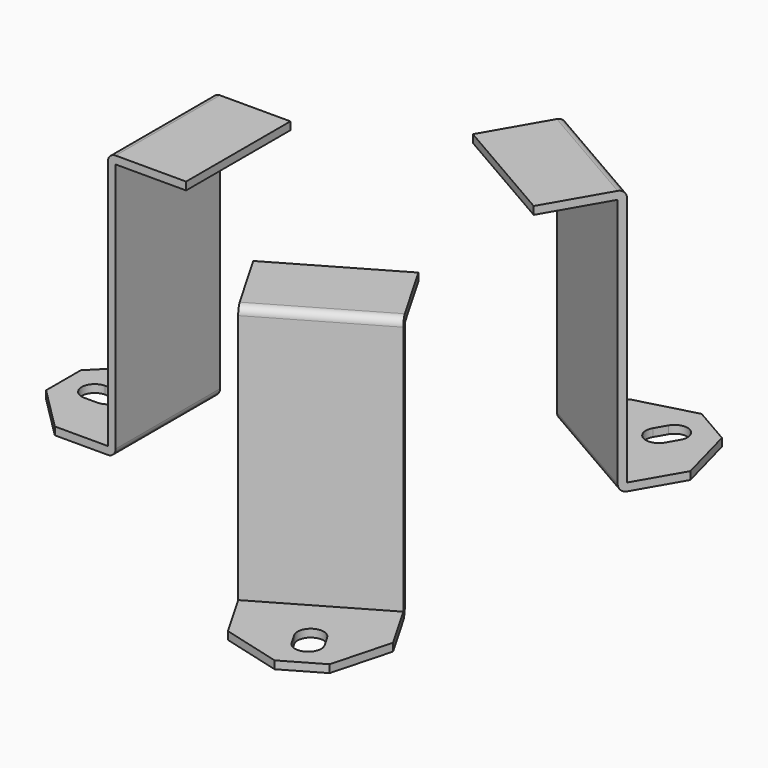
from build123d import *

# Parameters (mm, degrees)
F1_DEPTH = 25
F3_DEPTH = 25
F5_DEPTH = 25
F6_R     = 3
F8_COUNT = 3


with BuildPart() as f1:
    # F0 (on Front) → F1 (new body, symmetric)
    with BuildSketch(Plane.XZ):
        Polygon((30, 96), (30, 99), (0, 99), (0, 0), (-37, 0), (-37, -3), (3, -3), (3, 96), align=None)
    extrude(amount=F1_DEPTH, both=True)

    # F2 (on face) → F3 (cut)
    with BuildSketch(Plane.XY):
        Polygon((-37, 8.333333), (-20.333333, 25), (-37, 25), align=None)
        Polygon((-20.333333, -25), (-37, -8.333333), (-37, -25), align=None)
    extrude(amount=-F3_DEPTH, mode=Mode.SUBTRACT)

    # F4 (on face) → F5 (cut)
    with BuildSketch(Plane.XY):
        with BuildLine():
            Line((-20, 5), (-25, 5))
            ThreePointArc((-25, 5), (-30, 0), (-25, -5))
            Line((-25, -5), (-20, -5))
            ThreePointArc((-20, -5), (-15, 0), (-20, 5))
        make_face()
    extrude(amount=-F5_DEPTH, mode=Mode.SUBTRACT)

    # F6
    f6_edges = [f1.edges().sort_by_distance(p)[0] for p in [
        (3, 0, -3),
        (0, 0, 99),
    ]]
    fillet(f6_edges, radius=F6_R)


with BuildPart() as f8_1:
    # F8: instance of F1
    add(f1.part.rotate(Axis((76.333333, 0, 7.309712), (0, 0, -1)), 1 * 360 / F8_COUNT))


with BuildPart() as f8_2:
    # F8: instance of F1
    add(f1.part.rotate(Axis((76.333333, 0, 7.309712), (0, 0, -1)), 2 * 360 / F8_COUNT))


solid = Compound([f1.part, f8_1.part, f8_2.part])
